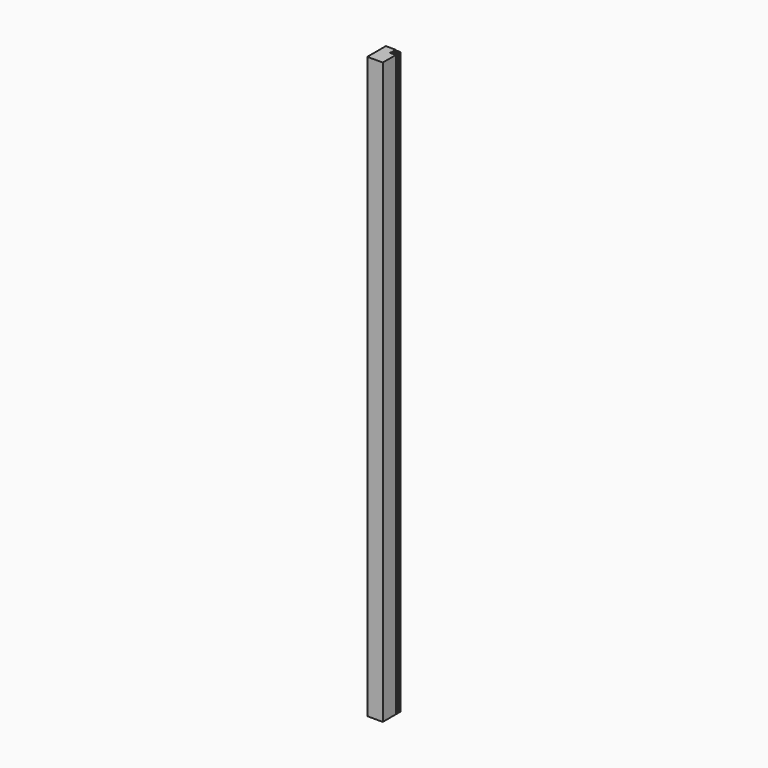
from build123d import *

# Parameters (mm, degrees)
F1_DEPTH = 1500


with BuildPart() as f1:
    # F0 (on Top) → F1 (new body)
    with BuildSketch(Plane.XY):
        Polygon((-20, 30), (-20, -30), (20, -30), (20, 12), (5, 12), (5, 14), (20, 14), (20, 16), (5, 16), (5, 18), (20, 18), (20, 20), (5, 20), (5, 22), (20, 22), (20, 24), (5, 24), (5, 26), (20, 26), (20, 28), (5, 28), (5, 30), align=None)
    extrude(amount=F1_DEPTH)


solid = f1.part
